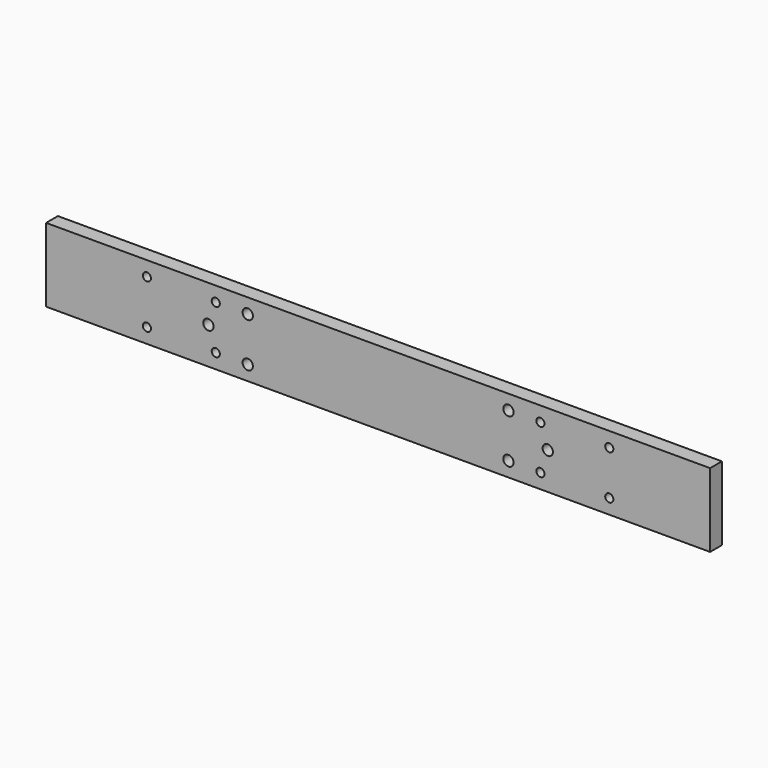
from build123d import *

# Parameters (mm, degrees)
F0_W     = 270
F0_H     = 30
F1_DEPTH = 6
F3_D     = 4.2
F5_D     = 3.3


with BuildPart() as f1:
    # F0 (on Front) → F1 (new body)
    with BuildSketch(Plane.XZ):
        with Locations((135, 15)):
            Rectangle(F0_W, F0_H)
    extrude(amount=F1_DEPTH)

    # F3 (through all)
    with Locations(Plane(origin=(0, 0, 0), x_dir=(1, 0, 0), z_dir=(0, 1, 0))):
        with Locations((66, -15), (82, -24), (82, -6), (204, -15), (188, -24), (188, -6)):
            Hole(F3_D / 2)

    # F5 (through all)
    with Locations(Plane(origin=(0, 0, 0), x_dir=(1, 0, 0), z_dir=(0, 1, 0))):
        with Locations((41, -24), (69, -24), (69, -6), (41, -6), (201, -24), (229, -24), (229, -6), (201, -6)):
            Hole(F5_D / 2)


solid = f1.part
